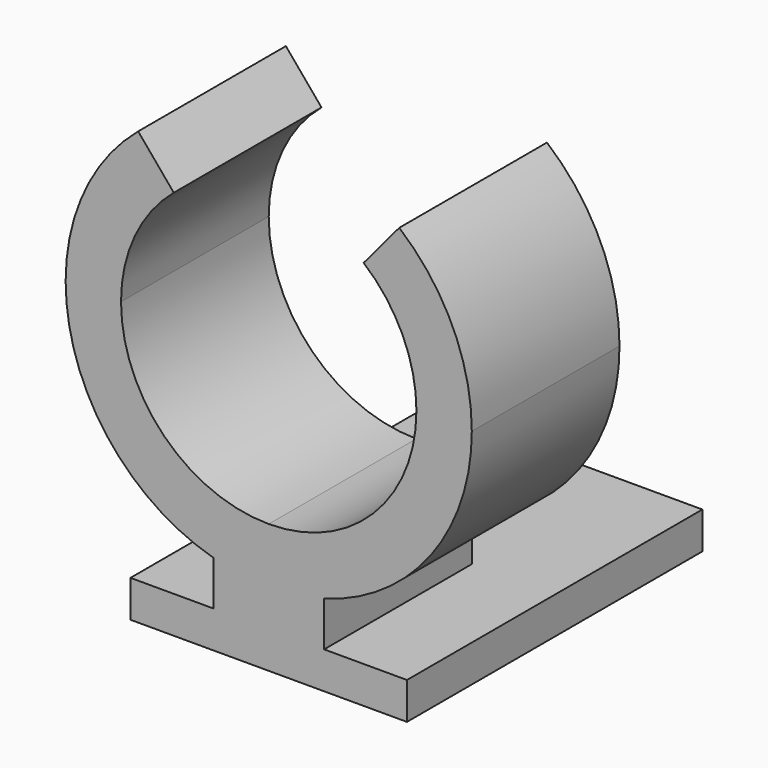
from build123d import *

# Parameters (mm, degrees)
F0_W     = 14.976
F0_H     = 20
F1_DEPTH = 2
F3_DEPTH = 10


with BuildPart() as f1:
    # F0 (on Top) → F1 (new body)
    with BuildSketch(Plane.XY):
        with Locations((7.488, 10)):
            Rectangle(F0_W, F0_H)
    extrude(amount=-F1_DEPTH)

    # F2 (on face) → F3 (join)
    with BuildSketch(Plane.XZ):
        with BuildLine():
            Line((7.488, 2), (7.488, 0))
            Line((7.488, 0), (10.488, 0))
            Line((10.488, 0), (10.488, 2.4169947557))
            ThreePointArc((10.488, 2.4169947557), (9.0024210632, 2.1047474172), (7.488, 2))
        make_face()
        with BuildLine():
            Line((4.488, 2.4169947557), (4.488, 0))
            Line((4.488, 0), (7.488, 0))
            Line((7.488, 0), (7.488, 2))
            ThreePointArc((7.488, 2), (5.9735789368, 2.1047474172), (4.488, 2.4169947557))
        make_face()
        with BuildLine():
            Line((4.488, 5), (4.488, 2.4169947557))
            ThreePointArc((4.488, 2.4169947557), (5.9735789368, 2.1047474172), (7.488, 2))
            Line((7.488, 2), (7.488, 5))
            Line((7.488, 5), (4.488, 5))
        make_face()
        with BuildLine():
            Line((7.488, 5), (7.488, 2))
            ThreePointArc((7.488, 2), (9.0024210632, 2.1047474172), (10.488, 2.4169947557))
            Line((10.488, 2.4169947557), (10.488, 5))
            Line((10.488, 5), (7.488, 5))
        make_face()
        with BuildLine():
            ThreePointArc((15.488, 13), (13.1448542495, 7.3431457505), (7.488, 5))
            Line((7.488, 5), (10.488, 5))
            Line((10.488, 5), (10.488, 2.4169947557))
            ThreePointArc((10.488, 2.4169947557), (16.2629643874, 6.3667504193), (18.488, 13))
            ThreePointArc((18.488, 13), (17.4573856574, 17.6488008791), (14.5586637066, 21.4264888743))
            Line((14.5586637066, 21.4264888743), (12.6303008775, 19.128355545))
            ThreePointArc((12.6303008775, 19.128355545), (14.7384622963, 16.3809460939), (15.488, 13))
        make_face()
        with BuildLine():
            ThreePointArc((-3.512, 13), (-1.2869643874, 6.3667504193), (4.488, 2.4169947557))
            Line((4.488, 2.4169947557), (4.488, 5))
            Line((4.488, 5), (7.488, 5))
            ThreePointArc((7.488, 5), (1.8311457505, 7.3431457505), (-0.512, 13))
            Line((-0.512, 13), (-3.512, 13))
        make_face()
        with BuildLine():
            ThreePointArc((0.4173362934, 21.4264888743), (-2.4813856574, 17.6488008791), (-3.512, 13))
            Line((-3.512, 13), (-0.512, 13))
            ThreePointArc((-0.512, 13), (0.2375377037, 16.3809460939), (2.3456991225, 19.128355545))
            Line((2.3456991225, 19.128355545), (0.4173362934, 21.4264888743))
        make_face()
    extrude(amount=-F3_DEPTH)


solid = f1.part
